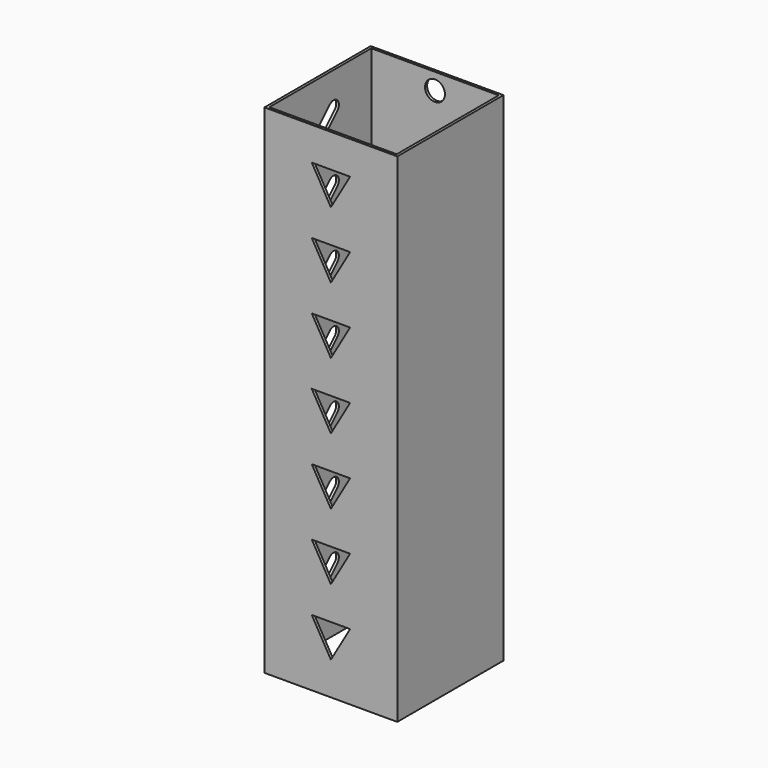
from build123d import *

# Parameters (mm, degrees)
F0_W     = 20
F0_H     = 20
F0_W_2   = 19.2
F0_H_2   = 19.2
F1_DEPTH = 75
F2_R     = 1.5
F3_DEPTH = 0.4
F5_DEPTH = 0.4
F7_DEPTH = 0.4


with BuildPart() as f1:
    # F0 (on Top) → F1 (new body)
    with BuildSketch(Plane.XY):
        Rectangle(F0_W, F0_H)
        Rectangle(F0_W_2, F0_H_2, mode=Mode.SUBTRACT)
    extrude(amount=F1_DEPTH)

    # F2 (on face) → F3 (cut, through all)
    with BuildSketch(Plane(origin=(0, 10, 0), x_dir=(-1, 0, 0), z_dir=(0, 1, 0))):
        with Locations((0, 62.5)):
            Circle(F2_R)
        with Locations((0, 52.5)):
            Circle(F2_R)
        with Locations((0, 42.5)):
            Circle(F2_R)
        with Locations((0, 32.5)):
            Circle(F2_R)
        with Locations((0, 22.5)):
            Circle(F2_R)
        with Locations((0, 12.5)):
            Circle(F2_R)
        with Locations((0, 72.5)):
            Circle(F2_R)
    extrude(amount=-F3_DEPTH, mode=Mode.SUBTRACT)

    # F4 (on face) → F5 (cut, through all)
    with BuildSketch(Plane.XZ.offset(10)):
        Polygon((2.886751, 10), (-2.886751, 10), (0, 5), align=None)
        Polygon((-2.886751, 20), (0, 15), (2.886751, 20), align=None)
        Polygon((-2.886751, 30), (0, 25), (2.886751, 30), align=None)
        Polygon((-2.886751, 40), (0, 35), (2.886751, 40), align=None)
        Polygon((-2.886751, 50), (0, 45), (2.886751, 50), align=None)
        Polygon((-2.886751, 60), (0, 55), (2.886751, 60), align=None)
        Polygon((-2.886751, 70), (0, 65), (2.886751, 70), align=None)
    extrude(amount=-F5_DEPTH, mode=Mode.SUBTRACT)

    # F6 (on face) → F7 (cut, through all)
    with BuildSketch(Plane(origin=(-10, 0, 0), x_dir=(0, -1, 0), z_dir=(-1, 0, 0))):
        with BuildLine():
            ThreePointArc((-1.792893, 10.707107), (-3.207107, 10.707107), (-3.207107, 9.292893))
            Line((-3.207107, 9.292893), (1.792893, 4.292893))
            ThreePointArc((1.792893, 4.292893), (3.207107, 4.292893), (3.207107, 5.707107))
            Line((3.207107, 5.707107), (-1.792893, 10.707107))
        make_face()
        with BuildLine():
            ThreePointArc((-1.792893, 20.707107), (-3.207107, 20.707107), (-3.207107, 19.292893))
            Line((-3.207107, 19.292893), (1.792893, 14.292893))
            ThreePointArc((1.792893, 14.292893), (3.207107, 14.292893), (3.207107, 15.707107))
            Line((3.207107, 15.707107), (-1.792893, 20.707107))
        make_face()
        with BuildLine():
            ThreePointArc((-1.792893, 30.707107), (-3.207107, 30.707107), (-3.207107, 29.292893))
            Line((-3.207107, 29.292893), (1.792893, 24.292893))
            ThreePointArc((1.792893, 24.292893), (3.207107, 24.292893), (3.207107, 25.707107))
            Line((3.207107, 25.707107), (-1.792893, 30.707107))
        make_face()
        with BuildLine():
            ThreePointArc((-1.792893, 40.707107), (-3.207107, 40.707107), (-3.207107, 39.292893))
            Line((-3.207107, 39.292893), (1.792893, 34.292893))
            ThreePointArc((1.792893, 34.292893), (3.207107, 34.292893), (3.207107, 35.707107))
            Line((3.207107, 35.707107), (-1.792893, 40.707107))
        make_face()
        with BuildLine():
            ThreePointArc((-1.792893, 50.707107), (-3.207107, 50.707107), (-3.207107, 49.292893))
            Line((-3.207107, 49.292893), (1.792893, 44.292893))
            ThreePointArc((1.792893, 44.292893), (3.207107, 44.292893), (3.207107, 45.707107))
            Line((3.207107, 45.707107), (-1.792893, 50.707107))
        make_face()
        with BuildLine():
            ThreePointArc((-1.792893, 60.707107), (-3.207107, 60.707107), (-3.207107, 59.292893))
            Line((-3.207107, 59.292893), (1.792893, 54.292893))
            ThreePointArc((1.792893, 54.292893), (3.207107, 54.292893), (3.207107, 55.707107))
            Line((3.207107, 55.707107), (-1.792893, 60.707107))
        make_face()
        with BuildLine():
            ThreePointArc((-1.792893, 70.707107), (-3.207107, 70.707107), (-3.207107, 69.292893))
            Line((-3.207107, 69.292893), (1.792893, 64.292893))
            ThreePointArc((1.792893, 64.292893), (3.207107, 64.292893), (3.207107, 65.707107))
            Line((3.207107, 65.707107), (-1.792893, 70.707107))
        make_face()
    extrude(amount=-F7_DEPTH, mode=Mode.SUBTRACT)


solid = f1.part
